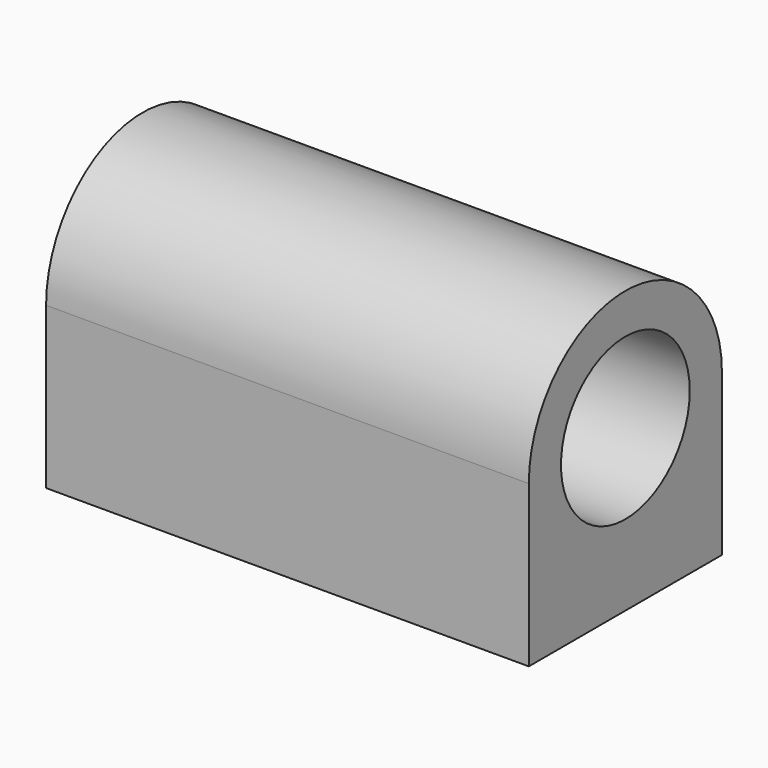
from build123d import *

# Parameters (mm, degrees)
F0_R     = 12.7
F1_DEPTH = 76.2
F2_R     = 1.651
F3_DEPTH = 12.7


with BuildPart() as f1:
    # F0 (on Right) → F1 (new body)
    with BuildSketch(Plane.YZ):
        with BuildLine():
            Line((19.05, -25.4), (19.05, 0))
            ThreePointArc((19.05, 0), (0, 19.05), (-19.05, 0))
            Line((-19.05, 0), (-19.05, -25.4))
            Line((-19.05, -25.4), (19.05, -25.4))
        make_face()
        Circle(F0_R, mode=Mode.SUBTRACT)
    extrude(amount=-F1_DEPTH)

    # F2 (on face) → F3 (cut)
    with BuildSketch(Plane(origin=(0, 0, -25.4), x_dir=(1, 0, 0), z_dir=(0, 0, -1))):
        with Locations((-6.35, 12.7)):
            Circle(F2_R)
        with Locations((-6.35, -12.7)):
            Circle(F2_R)
        with Locations((-69.85, -12.7)):
            Circle(F2_R)
        with Locations((-69.85, 12.7)):
            Circle(F2_R)
    extrude(amount=-F3_DEPTH, mode=Mode.SUBTRACT)


solid = f1.part
